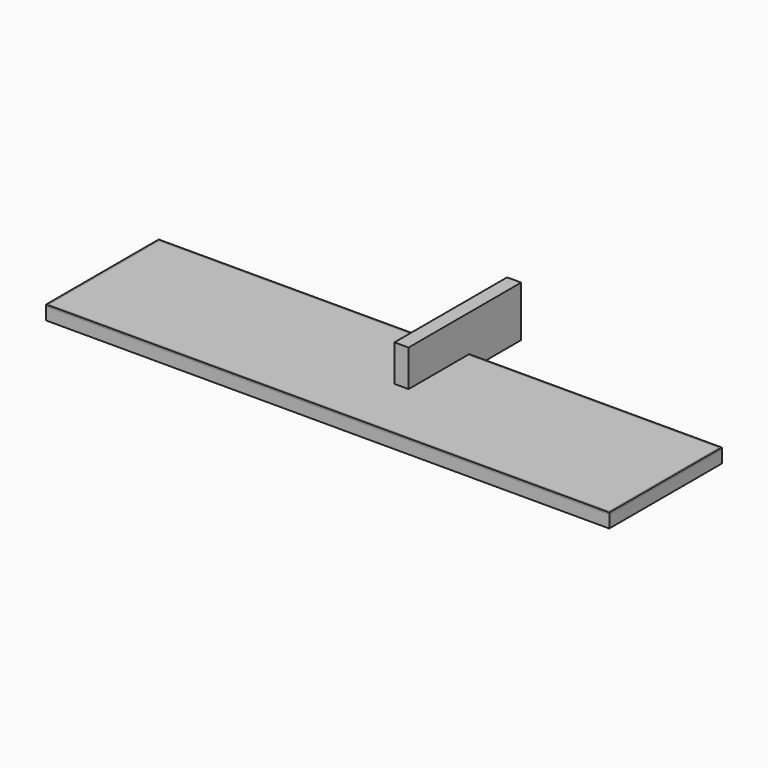
from build123d import *

# Parameters (mm, degrees)
F0_W     = 2000
F0_H     = 500
F1_DEPTH = 50
F2_W     = 50
F2_H     = 500
F3_DEPTH = 180
F5_SIZE  = 6


with BuildPart() as f1:
    # F0 (on Top) → F1 (new body)
    with BuildSketch(Plane.XY):
        with Locations((8.8558830321, -110.2227519286)):
            Rectangle(F0_W, F0_H)
    extrude(amount=F1_DEPTH)


with BuildPart() as f3:
    # F2 (on Top) → F3 (new body)
    with BuildSketch(Plane.XY):
        with Locations((86.2466022372, 120.7464857791)):
            Rectangle(F2_W, F2_H)
    extrude(amount=F3_DEPTH)


with BuildPart() as f4_1:
    # F4: copy of F1
    add(f1.part)


with BuildPart() as f1_1:
    add(f1.part)

    # F5
    f5_edges = [f1_1.edges().sort_by_distance(p)[0] for p in [
        (8.855883, -360.222752, 50),
        (-991.144117, -110.222752, 50),
        (8.855883, 139.777248, 50),
        (1008.855883, -110.222752, 50),
    ]]
    chamfer(f5_edges, length=F5_SIZE)


solid = Compound([f3.part, f4_1.part, f1_1.part])
